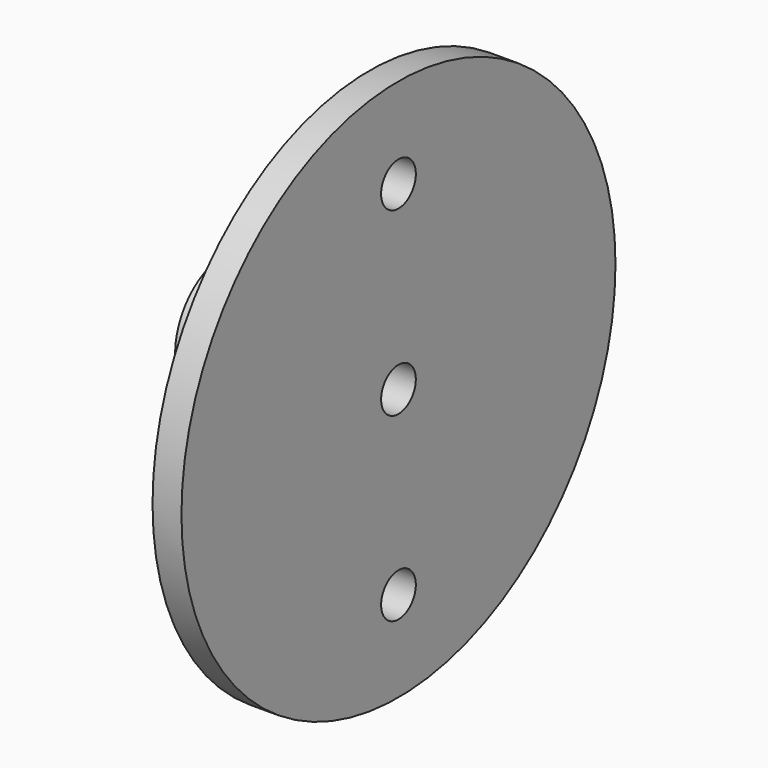
from build123d import *

# Parameters (mm, degrees)
CYLINDER031_R           = 1.5
CYLINDER031_DEPTH       = 15
CYLINDER031_PITCH_ANGLE = 90
CYLINDER030_R           = 1.5
CYLINDER030_DEPTH       = 15
CYLINDER030_PITCH_ANGLE = 90
SKETCH016_R             = 4.3
EXTRUDE011_DEPTH        = 10
FUSION039_PITCH_ANGLE   = 90


with BuildPart() as m3_hole008:
    # Cylinder031 → Cylinder031 (new body)
    with BuildSketch(Plane.XY):
        Circle(CYLINDER031_R)
    extrude(amount=CYLINDER031_DEPTH)


with BuildPart() as m3_hole008_1:
    # Cylinder031 pitch: moved
    add(m3_hole008.part.rotate(Axis((0, 0, 0), (0, 1, 0)), CYLINDER031_PITCH_ANGLE))


with BuildPart() as m3_hole008_2:
    # Cylinder031 placement: moved
    add(m3_hole008_1.part.moved(Location((163.5, 47, -2.5))))


with BuildPart() as encoder_to_wheel_holes:
    # Cylinder030 → Cylinder030 (new body)
    with BuildSketch(Plane.XY):
        Circle(CYLINDER030_R)
    extrude(amount=CYLINDER030_DEPTH)


with BuildPart() as encoder_to_wheel_holes_1:
    # Cylinder030 pitch: moved
    add(encoder_to_wheel_holes.part.rotate(Axis((0, 0, 0), (0, 1, 0)), CYLINDER030_PITCH_ANGLE))


with BuildPart() as encoder_to_wheel_holes_2:
    # Cylinder030 placement: moved
    add(encoder_to_wheel_holes_1.part.moved(Location((163.5, 47, 22.5))))

    # Fusion096: union M3 hole008
    add(m3_hole008_2.part)


with BuildPart() as extrude011:
    # Sketch016 → Extrude011 (new body)
    with BuildSketch(Plane.XY.offset(2)):
        Circle(SKETCH016_R)
        with BuildLine():
            Line((-1.746425, 2.8), (-1.746425, -2.8))
            ThreePointArc((-1.746425, -2.8), (3.3, 0), (-1.746425, 2.8))
        make_face(mode=Mode.SUBTRACT)
    extrude(amount=EXTRUDE011_DEPTH)


with BuildPart() as encoder_to_wheel_piece:
    # Sketch015 → Revolve (revolve)
    with BuildSketch(Plane.YZ):
        Polygon((18.75, 0), (18.75, 2), (3.75, 2), (1.5, 2), (1.5, 0), (3, 0), align=None)
    revolve(axis=Axis((0, 0, 0), (0, 0, 1)))

    # Fusion039: union Extrude011
    add(extrude011.part)


with BuildPart() as encoder_to_wheel_piece_1:
    # Fusion039 pitch: moved
    add(encoder_to_wheel_piece.part.rotate(Axis((0, 0, 0), (0, 1, 0)), FUSION039_PITCH_ANGLE))


with BuildPart() as encoder_to_wheel_piece_2:
    # Fusion039 placement: moved
    add(encoder_to_wheel_piece_1.part.moved(Location((175, 47, 10))))

    # Cut055: cut Encoder-to-wheel holes
    add(encoder_to_wheel_holes_2.part, mode=Mode.SUBTRACT)


with BuildPart() as encoder_to_wheel_piece_3:
    # Cut055 placement: moved
    add(encoder_to_wheel_piece_2.part.moved(Location((-23, 15, 0))))


with BuildPart() as part_mirroring009:
    # Part__Mirroring009: instance of Encoder-to-wheel piece
    add(encoder_to_wheel_piece_3.part.mirror(Plane(origin=(5, 0, 0), x_dir=(0, -1, 0), z_dir=(1, 0, 0))))


solid = part_mirroring009.part
